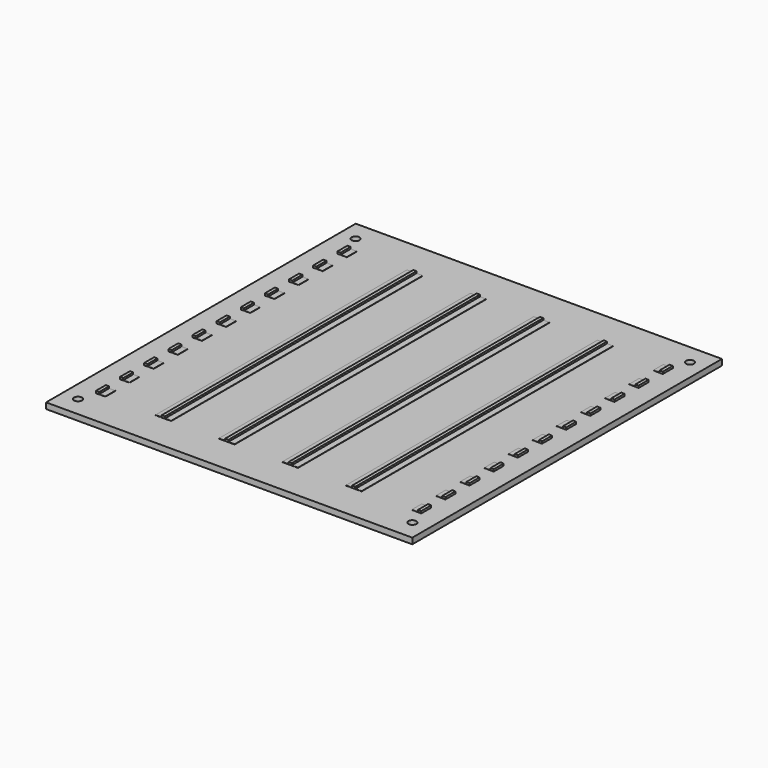
from build123d import *

# Parameters (mm, degrees)
F0_W     = 146.75
F0_H     = 155.1
F0_R     = 1.6
F1_DEPTH = 2.37
F2_W     = 1.3
F2_H     = 126
F3_DEPTH = 0.85
F4_W     = 2.5
F4_H     = 126
F5_DEPTH = 0.1
F6_W     = 8
F6_H     = 7.1
F7_DEPTH = 0.85


with BuildPart() as f1:
    # F0 (on Top) → F1 (new body)
    with BuildSketch(Plane.XY):
        Rectangle(F0_W, F0_H)
        with Locations((-67.005, -69.5325)):
            Circle(F0_R, mode=Mode.SUBTRACT)
        with Locations((67.005, -69.5325)):
            Circle(F0_R, mode=Mode.SUBTRACT)
        with Locations((-67.005, 69.5325)):
            Circle(F0_R, mode=Mode.SUBTRACT)
        with Locations((67.005, 69.5325)):
            Circle(F0_R, mode=Mode.SUBTRACT)
    extrude(amount=F1_DEPTH)

    # F2 (on face) → F3 (join)
    with BuildSketch(Plane.XY.offset(2.37)):
        with Locations((64.675, 0)):
            Rectangle(F2_W, F2_H)
        with Locations((38.275, 0)):
            Rectangle(F2_W, F2_H)
        with Locations((12.775, 0)):
            Rectangle(F2_W, F2_H)
        with Locations((-38.025, 0)):
            Rectangle(F2_W, F2_H)
        with Locations((-12.625, 0)):
            Rectangle(F2_W, F2_H)
        with Locations((-64.425, 0)):
            Rectangle(F2_W, F2_H)
    extrude(amount=F3_DEPTH)

    # F4 (on face) → F5 (join)
    with BuildSketch(Plane.XY.offset(2.37)):
        with Locations((-62.525, 0)):
            Rectangle(F4_W, F4_H)
        with Locations((-39.925, 0)):
            Rectangle(F4_W, F4_H)
        with Locations((-36.125, 0)):
            Rectangle(F4_W, F4_H)
        with Locations((-14.525, 0)):
            Rectangle(F4_W, F4_H)
        with Locations((-10.725, 0)):
            Rectangle(F4_W, F4_H)
        with Locations((10.875, 0)):
            Rectangle(F4_W, F4_H)
        with Locations((14.675, 0)):
            Rectangle(F4_W, F4_H)
        with Locations((36.375, 0)):
            Rectangle(F4_W, F4_H)
        with Locations((40.175, 0)):
            Rectangle(F4_W, F4_H)
        with Locations((62.775, 0)):
            Rectangle(F4_W, F4_H)
    extrude(amount=F5_DEPTH)

    # F6 (on face) → F7 (cut)
    with BuildSketch(Plane.XY.offset(3.22)):
        with Locations((-62.375, -54.45)):
            Rectangle(F6_W, F6_H)
        with Locations((-62.375, -42.35)):
            Rectangle(F6_W, F6_H)
        with Locations((-62.375, -30.25)):
            Rectangle(F6_W, F6_H)
        with Locations((-62.375, -18.15)):
            Rectangle(F6_W, F6_H)
        with Locations((-62.375, -6.05)):
            Rectangle(F6_W, F6_H)
        with Locations((-62.375, 6.05)):
            Rectangle(F6_W, F6_H)
        with Locations((-62.375, 18.15)):
            Rectangle(F6_W, F6_H)
        with Locations((-62.375, 30.25)):
            Rectangle(F6_W, F6_H)
        with Locations((-62.375, 42.35)):
            Rectangle(F6_W, F6_H)
        with Locations((-62.375, 54.45)):
            Rectangle(F6_W, F6_H)
        with Locations((63.375, -54.45)):
            Rectangle(F6_W, F6_H)
        with Locations((63.375, -42.35)):
            Rectangle(F6_W, F6_H)
        with Locations((63.375, -30.25)):
            Rectangle(F6_W, F6_H)
        with Locations((63.375, -18.15)):
            Rectangle(F6_W, F6_H)
        with Locations((63.375, -6.05)):
            Rectangle(F6_W, F6_H)
        with Locations((63.375, 6.05)):
            Rectangle(F6_W, F6_H)
        with Locations((63.375, 18.15)):
            Rectangle(F6_W, F6_H)
        with Locations((63.375, 30.25)):
            Rectangle(F6_W, F6_H)
        with Locations((63.375, 42.35)):
            Rectangle(F6_W, F6_H)
        with Locations((63.375, 54.45)):
            Rectangle(F6_W, F6_H)
    extrude(amount=-F7_DEPTH, mode=Mode.SUBTRACT)


solid = f1.part
